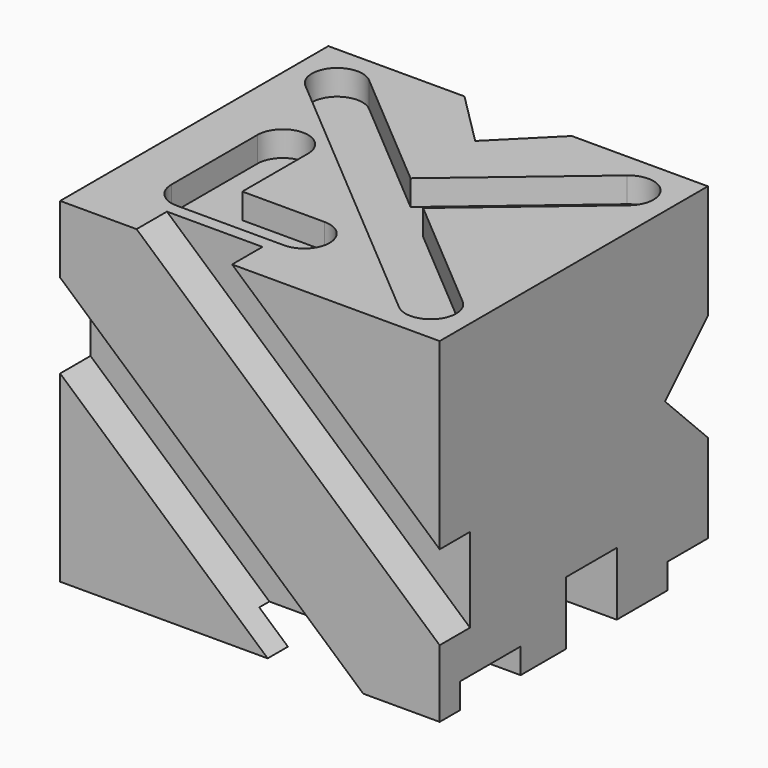
from build123d import *

# Parameters (mm, degrees)
F0_W      = 53
F0_H      = 53
F1_DEPTH  = 60
F3_DEPTH  = 4
F4_DEPTH  = 53
F6_DEPTH  = 6
F8_DEPTH  = 60
F10_DEPTH = 4
F9_W      = 60
F9_H      = 10
F11_DEPTH = 10
F12_DEPTH = 25


with BuildPart() as f1:
    # F0 (on Right) → F1 (new body)
    with BuildSketch(Plane.YZ):
        with Locations((26.5, 26.5)):
            Rectangle(F0_W, F0_H)
    extrude(amount=F1_DEPTH)

    # F2 (on face) → F3 (cut)
    with BuildSketch(Plane.XY.offset(53)):
        with BuildLine():
            ThreePointArc((9.5867410065, 49.0510278539), (3.9489721461, 48.5867410065), (4.4132589935, 42.9489721461))
            Line((4.4132589935, 42.9489721461), (50.4132589935, 3.9489721461))
            ThreePointArc((50.4132589935, 3.9489721461), (56.0510278539, 4.4132589935), (55.5867410065, 10.0510278539))
            Line((55.5867410065, 10.0510278539), (36.1853892444, 26.5))
            Line((36.1853892444, 26.5), (55.5867410065, 42.9489721461))
            ThreePointArc((55.5867410065, 42.9489721461), (56.0510278539, 48.5867410065), (50.4132589935, 49.0510278539))
            Line((50.4132589935, 49.0510278539), (30, 31.7441343594))
            Line((30, 31.7441343594), (9.5867410065, 49.0510278539))
        make_face()
        with BuildLine():
            ThreePointArc((9.5867410065, 49.0510278539), (3.9489721461, 48.5867410065), (4.4132589935, 42.9489721461))
            Line((4.4132589935, 42.9489721461), (50.4132589935, 3.9489721461))
            ThreePointArc((50.4132589935, 3.9489721461), (56.0510278539, 4.4132589935), (55.5867410065, 10.0510278539))
            Line((55.5867410065, 10.0510278539), (36.1853892444, 26.5))
            Line((36.1853892444, 26.5), (55.5867410065, 42.9489721461))
            ThreePointArc((55.5867410065, 42.9489721461), (56.0510278539, 48.5867410065), (50.4132589935, 49.0510278539))
            Line((50.4132589935, 49.0510278539), (30, 31.7441343594))
            Line((30, 31.7441343594), (9.5867410065, 49.0510278539))
        make_face()
        with BuildLine():
            ThreePointArc((9.5867410065, 49.0510278539), (3.9489721461, 48.5867410065), (4.4132589935, 42.9489721461))
            Line((4.4132589935, 42.9489721461), (50.4132589935, 3.9489721461))
            ThreePointArc((50.4132589935, 3.9489721461), (56.0510278539, 4.4132589935), (55.5867410065, 10.0510278539))
            Line((55.5867410065, 10.0510278539), (36.1853892444, 26.5))
            Line((36.1853892444, 26.5), (55.5867410065, 42.9489721461))
            ThreePointArc((55.5867410065, 42.9489721461), (56.0510278539, 48.5867410065), (50.4132589935, 49.0510278539))
            Line((50.4132589935, 49.0510278539), (30, 31.7441343594))
            Line((30, 31.7441343594), (9.5867410065, 49.0510278539))
        make_face()
        with BuildLine():
            ThreePointArc((16, 29), (12, 33), (8, 29))
            Line((8, 29), (8, 12))
            ThreePointArc((8, 12), (9.1715728753, 9.1715728753), (12, 8))
            Line((12, 8), (29, 8))
            ThreePointArc((29, 8), (33, 12), (29, 16))
            Line((29, 16), (16, 16))
            Line((16, 16), (16, 29))
        make_face()
    extrude(amount=-F3_DEPTH, mode=Mode.SUBTRACT)

    # F2 (on face) → F4 (cut, through all)
    with BuildSketch(Plane.XY.offset(53)):
        Polygon((38.48, 53), (21.52, 53), (30, 44.52), align=None)
    extrude(amount=-F4_DEPTH, mode=Mode.SUBTRACT)

    # F5 (on face) → F6 (cut)
    with BuildSketch(Plane.XZ):
        Polygon((27.1889083829, 53), (12.0839592813, 53), (60, 10.6741640318), (60, 24.0168690716), align=None)
        Polygon((47.9160407187, 0), (0, 42.3258359682), (0, 28.9831309284), (32.8110916171, 0), align=None)
    extrude(amount=-F6_DEPTH, mode=Mode.SUBTRACT)

    # F7 (on face) → F8 (cut, through all)
    with BuildSketch(Plane(origin=(0, 0, 0), x_dir=(0, -1, 0), z_dir=(-1, 0, 0))):
        Polygon((-44.52, 26.5), (-53, 34.98), (-53, 18.02), align=None)
    extrude(amount=-F8_DEPTH, mode=Mode.SUBTRACT)

    # F9 (on face) → F10 (cut)
    with BuildSketch(Plane(origin=(0, 0, 0), x_dir=(1, 0, 0), z_dir=(0, 0, -1))):
        Polygon((0, -16), (60, -16), (60, -4), (47.9160407187, -4), (47.9160407187, -6), (32.8110916171, -6), (32.8110916171, -4), (0, -4), align=None)
        Polygon((38.48, -53), (60, -53), (60, -45), (30.48, -45), align=None)
    extrude(amount=-F10_DEPTH, mode=Mode.SUBTRACT)

    # F9 (on face) → F11 (cut)
    with BuildSketch(Plane(origin=(0, 0, 0), x_dir=(1, 0, 0), z_dir=(0, 0, -1))):
        with Locations((30, -30)):
            Rectangle(F9_W, F9_H)
    extrude(amount=-F11_DEPTH, mode=Mode.SUBTRACT)

    # F12 (cut): a face of the model
    f12_faces = [f1.faces().sort_by_distance(p)[0] for p in [
        (47.9160407187, 5, 2),
    ]]
    extrude(f12_faces, amount=-F12_DEPTH, mode=Mode.SUBTRACT)


solid = f1.part
